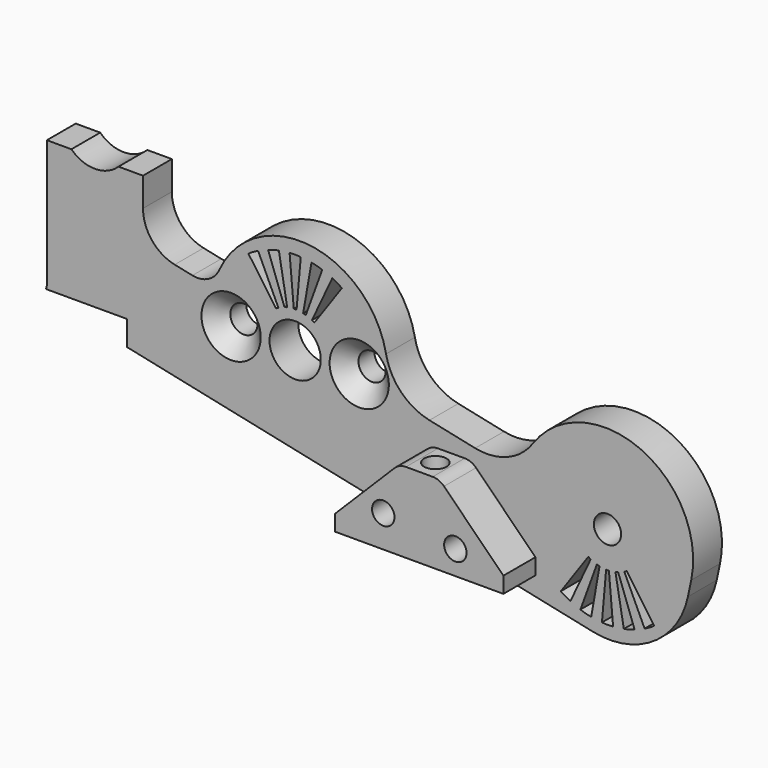
from build123d import *

# Parameters (mm, degrees)
CYLINDER071_R             = 1.7
CYLINDER071_DEPTH         = 10
CYLINDER071_ROLL_ANGLE    = 90
CYLINDER070_R             = 1.7
CYLINDER070_DEPTH         = 10
CYLINDER070_ROLL_ANGLE    = 90
BOX001027009_W            = 15
BOX001027009_H            = 24
BOX001027009_DEPTH        = 10.6
CYLINDER067_R             = 4.2
CYLINDER067_DEPTH         = 18
CYLINDER067_ROLL_ANGLE    = 90
BOX001027007_W            = 12
BOX001027007_H            = 4.5
BOX001027007_DEPTH        = 17
CYLINDER053_R             = 1.4
CYLINDER053_DEPTH         = 20
CYLINDER053_ROLL_ANGLE    = 90
CYLINDER052_R             = 1.4
CYLINDER052_DEPTH         = 20
CYLINDER052_ROLL_ANGLE    = 90
CYLINDER049_R             = 1.4
CYLINDER049_DEPTH         = 30
BOX001019_W               = 100
BOX001019_H               = 22
BOX001019_DEPTH           = 40
CYLINDER046_R             = 3.2
CYLINDER046_DEPTH         = 20
CYLINDER046_ROLL_ANGLE    = 90
BOX001018_W               = 2
BOX001018_H               = 20
BOX001018_DEPTH           = 13
CYLINDER047_R             = 2
CYLINDER047_DEPTH         = 26
CYLINDER047_ROLL_ANGLE    = 90
CYLINDER048_R             = 8
CYLINDER048_DEPTH         = 18
CYLINDER048_ROLL_ANGLE    = 90
BOX001017_W               = 13
BOX001017_H               = 20
BOX001017_DEPTH           = 2
BOX001017_PLACEMENT_ANGLE = 80
COMMON013_PITCH_ANGLE     = 10
COMMON014_PLACEMENT_ANGLE = 25
COMMON015_PITCH_ANGLE     = -20
COMMON016_PITCH_ANGLE     = -35
COMMON012_PITCH_ANGLE     = -5
FUSION064_PLACEMENT_ANGLE = 180
CYLINDER045_R             = 1.7
CYLINDER045_DEPTH         = 20
CYLINDER045_ROLL_ANGLE    = 90
CYLINDER043_R             = 11
CYLINDER043_DEPTH         = 14
CYLINDER043_ROLL_ANGLE    = 90
BOX001016_W               = 80
BOX001016_H               = 14
BOX001016_DEPTH           = 12
CYLINDER044_R             = 11
CYLINDER044_DEPTH         = 14
CYLINDER044_ROLL_ANGLE    = 90
FILLET003_R               = 10
FILLET003_PITCH_ANGLE     = 12
FILLET005_R               = 7
FILLET006_R               = 7
BOX001020_W               = 21
BOX001020_H               = 9.5
BOX001020_DEPTH           = 10
CHAMFER001_SIZE           = 8
FILLET004_R               = 2
CUT020_PLACEMENT_ANGLE    = 180
FILLET008_R               = 5
FILLET010_R               = 3
CHAMFER004_SIZE           = 2


with BuildPart() as cylinder067:
    # Cylinder071 → Cylinder071 (new body)
    with BuildSketch(Plane.XY):
        Circle(CYLINDER071_R)
    extrude(amount=CYLINDER071_DEPTH)


with BuildPart() as cylinder067_1:
    # Cylinder071 roll: moved
    add(cylinder067.part.rotate(Axis((0, 0, 0), (1, 0, 0)), CYLINDER071_ROLL_ANGLE))


with BuildPart() as cylinder067_2:
    # Cylinder071 placement: moved
    add(cylinder067_1.part.moved(Location((33, 10, -24))))


with BuildPart() as mounting_holes:
    # Cylinder070 → Cylinder070 (new body)
    with BuildSketch(Plane.XY):
        Circle(CYLINDER070_R)
    extrude(amount=CYLINDER070_DEPTH)


with BuildPart() as mounting_holes_1:
    # Cylinder070 roll: moved
    add(mounting_holes.part.rotate(Axis((0, 0, 0), (1, 0, 0)), CYLINDER070_ROLL_ANGLE))


with BuildPart() as mounting_holes_2:
    # Cylinder070 placement: moved
    add(mounting_holes_1.part.moved(Location((17, 10, -24))))

    # Fusion084: union Cylinder067
    add(cylinder067_2.part)


with BuildPart() as cube029:
    # Box001027009 → Box001027009 (new body)
    with BuildSketch(Plane(origin=(-11, -13, -38), x_dir=(1, 0, 0), z_dir=(0, 0, 1))):
        with Locations((7.5, 12)):
            Rectangle(BOX001027009_W, BOX001027009_H)
    extrude(amount=BOX001027009_DEPTH)


with BuildPart() as cylinder067_body:
    # Cylinder067 → Cylinder067 (new body)
    with BuildSketch(Plane.XY):
        Circle(CYLINDER067_R)
    extrude(amount=CYLINDER067_DEPTH)


with BuildPart() as cylinder067_body_1:
    # Cylinder067 roll: moved
    add(cylinder067_body.part.rotate(Axis((0, 0, 0), (1, 0, 0)), CYLINDER067_ROLL_ANGLE))


with BuildPart() as cylinder067_body_2:
    # Cylinder067 placement: moved
    add(cylinder067_body_1.part.moved(Location((0, 9, -8))))


with BuildPart() as cube027:
    # Box001027007 → Box001027007 (new body)
    with BuildSketch(Plane(origin=(-6, 2.5, -28), x_dir=(1, 0, 0), z_dir=(0, 0, 1))):
        with Locations((6, 2.25)):
            Rectangle(BOX001027007_W, BOX001027007_H)
    extrude(amount=BOX001027007_DEPTH)


with BuildPart() as cylinder053:
    # Cylinder053 → Cylinder053 (new body)
    with BuildSketch(Plane.XY):
        Circle(CYLINDER053_R)
    extrude(amount=CYLINDER053_DEPTH)


with BuildPart() as cylinder053_1:
    # Cylinder053 roll: moved
    add(cylinder053.part.rotate(Axis((0, 0, 0), (1, 0, 0)), CYLINDER053_ROLL_ANGLE))


with BuildPart() as cylinder053_2:
    # Cylinder053 placement: moved
    add(cylinder053_1.part.moved(Location((35, 10, 19))))


with BuildPart() as fusion068:
    # Cylinder052 → Cylinder052 (new body)
    with BuildSketch(Plane.XY):
        Circle(CYLINDER052_R)
    extrude(amount=CYLINDER052_DEPTH)


with BuildPart() as fusion068_1:
    # Cylinder052 roll: moved
    add(fusion068.part.rotate(Axis((0, 0, 0), (1, 0, 0)), CYLINDER052_ROLL_ANGLE))


with BuildPart() as fusion068_2:
    # Cylinder052 placement: moved
    add(fusion068_1.part.moved(Location((26, 10, 20))))

    # Fusion068: union Cylinder053
    add(cylinder053_2.part)


with BuildPart() as cylinder049:
    # Cylinder049 → Cylinder049 (new body)
    with BuildSketch(Plane(origin=(30.5, 0, 0), x_dir=(1, 0, 0), z_dir=(0, 0, 1))):
        Circle(CYLINDER049_R)
    extrude(amount=CYLINDER049_DEPTH)


with BuildPart() as cube017:
    # Box001019 → Box001019 (new body)
    with BuildSketch(Plane(origin=(-2, -2.5, -8), x_dir=(1, 0, 0), z_dir=(0, 0, 1))):
        with Locations((50, 11)):
            Rectangle(BOX001019_W, BOX001019_H)
    extrude(amount=BOX001019_DEPTH)


with BuildPart() as cylinder046:
    # Cylinder046 → Cylinder046 (new body)
    with BuildSketch(Plane.XY):
        Circle(CYLINDER046_R)
    extrude(amount=CYLINDER046_DEPTH)


with BuildPart() as cylinder046_1:
    # Cylinder046 roll: moved
    add(cylinder046.part.rotate(Axis((0, 0, 0), (1, 0, 0)), CYLINDER046_ROLL_ANGLE))


with BuildPart() as cylinder046_2:
    # Cylinder046 placement: moved
    add(cylinder046_1.part.moved(Location((50, 10, 8))))


with BuildPart() as cube016:
    # Box001018 → Box001018 (new body)
    with BuildSketch(Plane(origin=(0, -10, 0), x_dir=(1, 0, 0), z_dir=(0, 0, 1))):
        with Locations((1, 10)):
            Rectangle(BOX001018_W, BOX001018_H)
    extrude(amount=BOX001018_DEPTH)


with BuildPart() as cylinder047:
    # Cylinder047 → Cylinder047 (new body)
    with BuildSketch(Plane.XY):
        Circle(CYLINDER047_R)
    extrude(amount=CYLINDER047_DEPTH)


with BuildPart() as cylinder047_1:
    # Cylinder047 roll: moved
    add(cylinder047.part.rotate(Axis((0, 0, 0), (1, 0, 0)), CYLINDER047_ROLL_ANGLE))


with BuildPart() as cylinder047_2:
    # Cylinder047 placement: moved
    add(cylinder047_1.part.moved(Location((0, 12, 0))))


with BuildPart() as cut014:
    # Cylinder048 → Cylinder048 (new body)
    with BuildSketch(Plane.XY):
        Circle(CYLINDER048_R)
    extrude(amount=CYLINDER048_DEPTH)


with BuildPart() as cut014_1:
    # Cylinder048 roll: moved
    add(cut014.part.rotate(Axis((0, 0, 0), (1, 0, 0)), CYLINDER048_ROLL_ANGLE))


with BuildPart() as cut014_2:
    # Cylinder048 placement: moved
    add(cut014_1.part.moved(Location((0, 9, 0))))

    # Cut014: cut Cylinder047
    add(cylinder047_2.part, mode=Mode.SUBTRACT)


with BuildPart() as cube015:
    # Box001017 → Box001017 (new body)
    with BuildSketch(Plane.XY):
        with Locations((6.5, 10)):
            Rectangle(BOX001017_W, BOX001017_H)
    extrude(amount=BOX001017_DEPTH)


with BuildPart() as cube015_1:
    # Box001017 placement: moved
    add(cube015.part.moved(Location((0, -10, 0))).rotate(Axis((0, -10, 0), (0, -1, 0)), BOX001017_PLACEMENT_ANGLE))


with BuildPart() as common013:
    # Common013 base: copy of Cube015
    add(cube015_1.part)

    # Common013: intersect Cube016, Cut014
    add(cube016.part, mode=Mode.INTERSECT)
    add(cut014_2.part, mode=Mode.INTERSECT)


with BuildPart() as common013_1:
    # Common013 pitch: moved
    add(common013.part.rotate(Axis((0, 0, 0), (0, 1, 0)), COMMON013_PITCH_ANGLE))


with BuildPart() as common013_2:
    # Common013 placement: moved
    add(common013_1.part.moved(Location((0.647048, 0, 2.414815))))


with BuildPart() as common014:
    # Common014 base: copy of Cube015
    add(cube015_1.part)

    # Common014: intersect Cube016, Cut014
    add(cube016.part, mode=Mode.INTERSECT)
    add(cut014_2.part, mode=Mode.INTERSECT)


with BuildPart() as common014_1:
    # Common014 placement: moved
    add(common014.part.moved(Location((1.25, 0, 2.165064))).rotate(Axis((1.25, 0, 2.165064), (0, 1, 0)), COMMON014_PLACEMENT_ANGLE))


with BuildPart() as common015:
    # Common015 base: copy of Cube015
    add(cube015_1.part)

    # Common015: intersect Cube016, Cut014
    add(cube016.part, mode=Mode.INTERSECT)
    add(cut014_2.part, mode=Mode.INTERSECT)


with BuildPart() as common015_1:
    # Common015 pitch: moved
    add(common015.part.rotate(Axis((0, 0, 0), (0, 1, 0)), COMMON015_PITCH_ANGLE))


with BuildPart() as common015_2:
    # Common015 placement: moved
    add(common015_1.part.moved(Location((-0.647048, 0, 2.414815))))


with BuildPart() as common016:
    # Common016 base: copy of Cube015
    add(cube015_1.part)

    # Common016: intersect Cube016, Cut014
    add(cube016.part, mode=Mode.INTERSECT)
    add(cut014_2.part, mode=Mode.INTERSECT)


with BuildPart() as common016_1:
    # Common016 pitch: moved
    add(common016.part.rotate(Axis((0, 0, 0), (0, 1, 0)), COMMON016_PITCH_ANGLE))


with BuildPart() as common016_2:
    # Common016 placement: moved
    add(common016_1.part.moved(Location((-1.25, 0, 2.165064))))


with BuildPart() as common012:
    # Common012 base: copy of Cube015
    add(cube015_1.part)

    # Common012: intersect Cube016, Cut014
    add(cube016.part, mode=Mode.INTERSECT)
    add(cut014_2.part, mode=Mode.INTERSECT)


with BuildPart() as common012_1:
    # Common012 pitch: moved
    add(common012.part.rotate(Axis((0, 0, 0), (0, 1, 0)), COMMON012_PITCH_ANGLE))


with BuildPart() as common012_2:
    # Common012 placement: moved
    add(common012_1.part.moved(Location((0, 0, 2.5))))


with BuildPart() as strength_slots002:
    # Fusion063 base: copy of Common012
    add(common012_2.part)

    # Fusion063: union Common013, Common014, Common015, Common016
    add(common013_2.part)
    add(common014_1.part)
    add(common015_2.part)
    add(common016_2.part)


with BuildPart() as strength_slots002_1:
    # Fusion063 placement: moved
    add(strength_slots002.part.moved(Location((11, 0, 15))))


with BuildPart() as strength_slots003:
    # Fusion064 base: copy of Common012
    add(common012_2.part)

    # Fusion064: union Common013, Common014, Common015, Common016
    add(common013_2.part)
    add(common014_1.part)
    add(common015_2.part)
    add(common016_2.part)


with BuildPart() as strength_slots003_1:
    # Fusion064 placement: moved
    add(strength_slots003.part.moved(Location((50, 0, 8))).rotate(Axis((50, 0, 8), (0, 1, 0)), FUSION064_PLACEMENT_ANGLE))


with BuildPart() as fusion065:
    # Cylinder045 → Cylinder045 (new body)
    with BuildSketch(Plane.XY):
        Circle(CYLINDER045_R)
    extrude(amount=CYLINDER045_DEPTH)


with BuildPart() as fusion065_1:
    # Cylinder045 roll: moved
    add(fusion065.part.rotate(Axis((0, 0, 0), (1, 0, 0)), CYLINDER045_ROLL_ANGLE))


with BuildPart() as fusion065_2:
    # Cylinder045 placement: moved
    add(fusion065_1.part.moved(Location((11, 10, 15))))

    # Fusion065: union Cylinder046, strength-slots002, strength-slots003
    add(cylinder046_2.part)
    add(strength_slots002_1.part)
    add(strength_slots003_1.part)


with BuildPart() as cylinder043:
    # Cylinder043 → Cylinder043 (new body)
    with BuildSketch(Plane.XY):
        Circle(CYLINDER043_R)
    extrude(amount=CYLINDER043_DEPTH)


with BuildPart() as cylinder043_1:
    # Cylinder043 roll: moved
    add(cylinder043.part.rotate(Axis((0, 0, 0), (1, 0, 0)), CYLINDER043_ROLL_ANGLE))


with BuildPart() as cylinder043_2:
    # Cylinder043 placement: moved
    add(cylinder043_1.part.moved(Location((11, 7, 12))))


with BuildPart() as cube014:
    # Box001016 → Box001016 (new body)
    with BuildSketch(Plane(origin=(0, -7, 12), x_dir=(1, 0, 0), z_dir=(0, 0, 1))):
        with Locations((40, 7)):
            Rectangle(BOX001016_W, BOX001016_H)
    extrude(amount=BOX001016_DEPTH)


with BuildPart() as cut017:
    # Cylinder044 → Cylinder044 (new body)
    with BuildSketch(Plane.XY):
        Circle(CYLINDER044_R)
    extrude(amount=CYLINDER044_DEPTH)


with BuildPart() as cut017_1:
    # Cylinder044 roll: moved
    add(cut017.part.rotate(Axis((0, 0, 0), (1, 0, 0)), CYLINDER044_ROLL_ANGLE))


with BuildPart() as cut017_2:
    # Cylinder044 placement: moved
    add(cut017_1.part.moved(Location((50, 7, 12))))

    # Fusion062: union Cylinder043, Cube014
    add(cylinder043_2.part)
    add(cube014.part)

    # Fillet003
    fillet003_edges = [cut017_2.edges().sort_by_distance(p)[0] for p in [
        (0, 0, 24),
    ]]
    fillet(fillet003_edges, radius=FILLET003_R)


with BuildPart() as cut017_3:
    # Fillet003 pitch: moved
    add(cut017_2.part.rotate(Axis((0, 0, 0), (0, 1, 0)), FILLET003_PITCH_ANGLE))


with BuildPart() as cut017_4:
    # Fillet003 placement: moved
    add(cut017_3.part.moved(Location((-1.94863, 0, 5.460021))))

    # Fillet005
    fillet005_edges = [cut017_4.edges().sort_by_distance(p)[0] for p in [
        (22.065557, 0, 12.623735),
    ]]
    fillet(fillet005_edges, radius=FILLET005_R)

    # Fillet006
    fillet006_edges = [cut017_4.edges().sort_by_distance(p)[0] for p in [
        (38.694066, 0, 9.089236),
    ]]
    fillet(fillet006_edges, radius=FILLET006_R)

    # Cut015: cut Fusion065
    add(fusion065_2.part, mode=Mode.SUBTRACT)

    # Cut017: cut Cube017
    add(cube017.part, mode=Mode.SUBTRACT)


with BuildPart() as part_mirroring004:
    # Part__Mirroring004: instance of Cut017
    add(cut017_4.part.mirror(Plane(origin=(0, 0, 0), x_dir=(1, 0, 0), z_dir=(0, 1, 0))))


with BuildPart() as obj1:
    # Box001020 → Box001020 (new body)
    with BuildSketch(Plane(origin=(20, -2.5, 13), x_dir=(1, 0, 0), z_dir=(0, 0, 1))):
        with Locations((10.5, 4.75)):
            Rectangle(BOX001020_W, BOX001020_H)
    extrude(amount=BOX001020_DEPTH)

    # Chamfer001
    chamfer001_edges = [obj1.edges().sort_by_distance(p)[0] for p in [
        (20, 2.25, 13),
        (41, 2.25, 13),
    ]]
    chamfer(chamfer001_edges, length=CHAMFER001_SIZE)

    # Fillet004
    fillet004_edges = [obj1.edges().sort_by_distance(p)[0] for p in [
        (28, 2.25, 13),
        (33, 2.25, 13),
    ]]
    fillet(fillet004_edges, radius=FILLET004_R)

    # Fusion066: union Part__Mirroring004
    add(part_mirroring004.part)

    # Cut018: cut Cylinder049
    add(cylinder049.part, mode=Mode.SUBTRACT)

    # Cut020: cut Fusion068
    add(fusion068_2.part, mode=Mode.SUBTRACT)


with BuildPart() as obj1_1:
    # Cut020 placement: moved
    add(obj1.part.moved(Location((75, 0, -16))).rotate(Axis((75, 0, -16), (0, 1, 0)), CUT020_PLACEMENT_ANGLE))

    # Fusion083: union Cube027
    add(cube027.part)

    # Fillet008
    fillet008_edges = [obj1_1.edges().sort_by_distance(p)[0] for p in [
        (6, 4.75, -18.647511),
    ]]
    fillet(fillet008_edges, radius=FILLET008_R)

    # Fillet010
    fillet010_edges = [obj1_1.edges().sort_by_distance(p)[0] for p in [
        (14.786686, 4.75, -20.515179),
    ]]
    fillet(fillet010_edges, radius=FILLET010_R)

    # Cut037: cut Cylinder067 body
    add(cylinder067_body_2.part, mode=Mode.SUBTRACT)

    # Cut040: cut Cube029
    add(cube029.part, mode=Mode.SUBTRACT)

    # Cut042: cut mounting-holes
    add(mounting_holes_2.part, mode=Mode.SUBTRACT)

    # Chamfer004
    chamfer004_edges = [obj1_1.edges().sort_by_distance(p)[0] for p in [
        (31.3, 2.5, -24),
        (15.3, 2.5, -24),
    ]]
    chamfer(chamfer004_edges, length=CHAMFER004_SIZE)


solid = obj1_1.part
